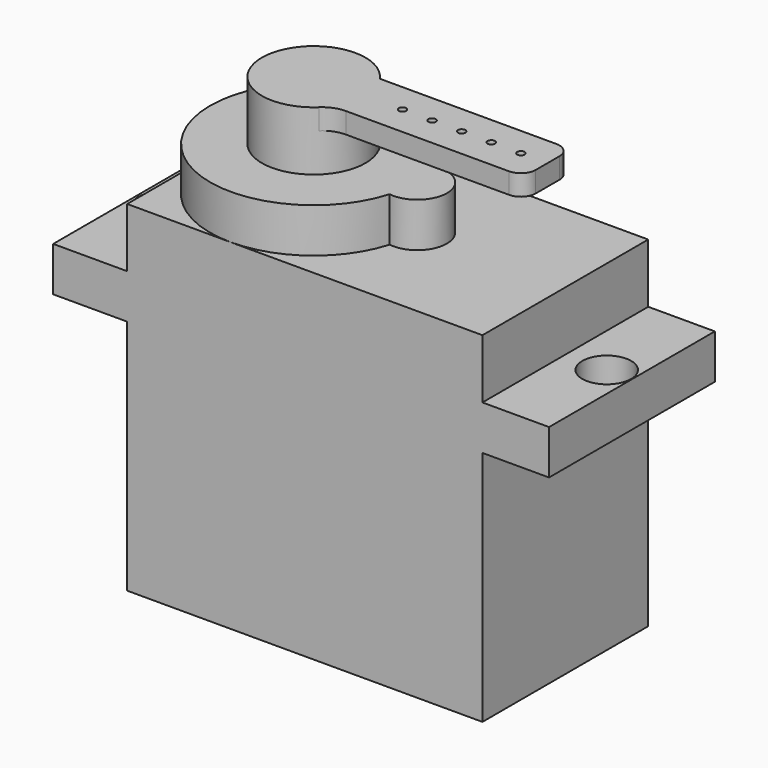
from build123d import *

# Parameters (mm, degrees)
CYLINDER067_R     = 0.25
CYLINDER067_DEPTH = 10
CYLINDER068_R     = 0.25
CYLINDER068_DEPTH = 10
CYLINDER069_R     = 0.25
CYLINDER069_DEPTH = 10
CYLINDER070_R     = 0.25
CYLINDER070_DEPTH = 10
CYLINDER066_R     = 0.25
CYLINDER066_DEPTH = 10
BOX094_W          = 13
BOX094_H          = 4
BOX094_DEPTH      = 1.4
CYLINDER065_R     = 3.5
CYLINDER065_DEPTH = 4
FILLET027_R       = 2
FILLET030_R       = 1
FILLET031_R       = 1
CYLINDER064_R     = 1.65
CYLINDER064_DEPTH = 10
CYLINDER063_R     = 1.65
CYLINDER063_DEPTH = 10
BOX093_W          = 33.5
BOX093_H          = 14
BOX093_DEPTH      = 3
CYLINDER062_R     = 2
CYLINDER062_DEPTH = 3
CYLINDER061_R     = 7
CYLINDER061_DEPTH = 3
BOX092_W          = 24
BOX092_H          = 14
BOX092_DEPTH      = 23


with BuildPart() as cilindro067:
    # Cylinder067 → Cylinder067 (new body)
    with BuildSketch(Plane(origin=(19, 7, 25), x_dir=(1, 0, 0), z_dir=(0, 0, 1))):
        Circle(CYLINDER067_R)
    extrude(amount=CYLINDER067_DEPTH)


with BuildPart() as cilindro068:
    # Cylinder068 → Cylinder068 (new body)
    with BuildSketch(Plane(origin=(17, 7, 25), x_dir=(1, 0, 0), z_dir=(0, 0, 1))):
        Circle(CYLINDER068_R)
    extrude(amount=CYLINDER068_DEPTH)


with BuildPart() as cilindro069:
    # Cylinder069 → Cylinder069 (new body)
    with BuildSketch(Plane(origin=(15, 7, 27), x_dir=(1, 0, 0), z_dir=(0, 0, 1))):
        Circle(CYLINDER069_R)
    extrude(amount=CYLINDER069_DEPTH)


with BuildPart() as cilindro070:
    # Cylinder070 → Cylinder070 (new body)
    with BuildSketch(Plane(origin=(13, 7, 27), x_dir=(1, 0, 0), z_dir=(0, 0, 1))):
        Circle(CYLINDER070_R)
    extrude(amount=CYLINDER070_DEPTH)


with BuildPart() as cilindro066:
    # Cylinder066 → Cylinder066 (new body)
    with BuildSketch(Plane(origin=(21, 7, 25), x_dir=(1, 0, 0), z_dir=(0, 0, 1))):
        Circle(CYLINDER066_R)
    extrude(amount=CYLINDER066_DEPTH)


with BuildPart() as cubo094:
    # Box094 → Box094 (new body)
    with BuildSketch(Plane(origin=(9.8, 5, 28.6), x_dir=(1, 0, 0), z_dir=(0, 0, 1))):
        with Locations((6.5, 2)):
            Rectangle(BOX094_W, BOX094_H)
    extrude(amount=BOX094_DEPTH)


with BuildPart() as fillet031:
    # Cylinder065 → Cylinder065 (new body)
    with BuildSketch(Plane(origin=(7, 7, 26), x_dir=(1, 0, 0), z_dir=(0, 0, 1))):
        Circle(CYLINDER065_R)
    extrude(amount=CYLINDER065_DEPTH)

    # Fusion067: union Cubo094
    add(cubo094.part)

    # Fillet027
    fillet027_edges = [fillet031.edges().sort_by_distance(p)[0] for p in [
        (9.872281, 5, 29.3),
    ]]
    fillet(fillet027_edges, radius=FILLET027_R)

    # Fillet030
    fillet030_edges = [fillet031.edges().sort_by_distance(p)[0] for p in [
        (22.8, 5, 29.3),
    ]]
    fillet(fillet030_edges, radius=FILLET030_R)

    # Fillet031
    fillet031_edges = [fillet031.edges().sort_by_distance(p)[0] for p in [
        (22.8, 9, 29.3),
    ]]
    fillet(fillet031_edges, radius=FILLET031_R)


with BuildPart() as cilindro064:
    # Cylinder064 → Cylinder064 (new body)
    with BuildSketch(Plane(origin=(26.8, 7, 12), x_dir=(1, 0, 0), z_dir=(0, 0, 1))):
        Circle(CYLINDER064_R)
    extrude(amount=CYLINDER064_DEPTH)


with BuildPart() as cilindro063:
    # Cylinder063 → Cylinder063 (new body)
    with BuildSketch(Plane(origin=(-3.2, 7, 12), x_dir=(1, 0, 0), z_dir=(0, 0, 1))):
        Circle(CYLINDER063_R)
    extrude(amount=CYLINDER063_DEPTH)


with BuildPart() as cubo093:
    # Box093 → Box093 (new body)
    with BuildSketch(Plane(origin=(-5, 0, 16), x_dir=(1, 0, 0), z_dir=(0, 0, 1))):
        with Locations((16.75, 7)):
            Rectangle(BOX093_W, BOX093_H)
    extrude(amount=BOX093_DEPTH)


with BuildPart() as cilindro062:
    # Cylinder062 → Cylinder062 (new body)
    with BuildSketch(Plane(origin=(14, 7, 23), x_dir=(1, 0, 0), z_dir=(0, 0, 1))):
        Circle(CYLINDER062_R)
    extrude(amount=CYLINDER062_DEPTH)


with BuildPart() as fusion064:
    # Cylinder061 → Cylinder061 (new body)
    with BuildSketch(Plane(origin=(7, 7, 23), x_dir=(1, 0, 0), z_dir=(0, 0, 1))):
        Circle(CYLINDER061_R)
    extrude(amount=CYLINDER061_DEPTH)

    # Fusion064: union Cilindro062
    add(cilindro062.part)


with BuildPart() as servo006:
    # Box092 → Box092 (new body)
    with BuildSketch(Plane.XY):
        with Locations((12, 7)):
            Rectangle(BOX092_W, BOX092_H)
    extrude(amount=BOX092_DEPTH)

    # Fusion065: union Fusion064
    add(fusion064.part)

    # Fusion066: union Cubo093
    add(cubo093.part)

    # Cut086: cut Cilindro063
    add(cilindro063.part, mode=Mode.SUBTRACT)

    # Cut087: cut Cilindro064
    add(cilindro064.part, mode=Mode.SUBTRACT)

    # Fusion068: union Fillet031
    add(fillet031.part)

    # Cut088: cut Cilindro066
    add(cilindro066.part, mode=Mode.SUBTRACT)

    # Cut089: cut Cilindro070
    add(cilindro070.part, mode=Mode.SUBTRACT)

    # Cut090: cut Cilindro069
    add(cilindro069.part, mode=Mode.SUBTRACT)

    # Cut091: cut Cilindro068
    add(cilindro068.part, mode=Mode.SUBTRACT)

    # Cut092: cut Cilindro067
    add(cilindro067.part, mode=Mode.SUBTRACT)


with BuildPart() as servo006_1:
    # Cut092 placement: moved
    add(servo006.part.moved(Location((-12, 27, -6))))


solid = servo006_1.part
